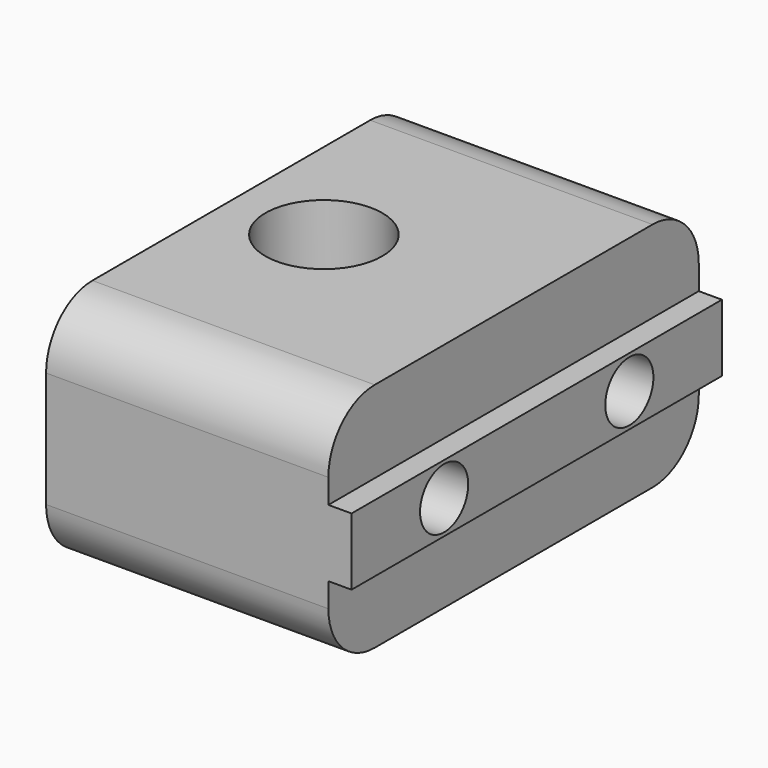
from build123d import *

# Parameters (mm, degrees)
F0_W     = 24.392
F0_H     = 40
F1_DEPTH = 20
F2_R     = 5.05
F3_DEPTH = 10
F4_W     = 40
F4_H     = 5.8
F5_DEPTH = 2
F6_R     = 2.6
F7_DEPTH = 26.393
F8_R     = 4.5
F9_DEPTH = 20.4
F10_R    = 5


with BuildPart() as f1:
    # F0 (on Top) → F1 (new body)
    with BuildSketch(Plane.XY):
        with Locations((4.196, 0)):
            Rectangle(F0_W, F0_H)
    extrude(amount=F1_DEPTH)

    # F2 (on face) → F3 (cut)
    with BuildSketch(Plane.XY.offset(20)):
        Circle(F2_R)
    extrude(amount=-F3_DEPTH, mode=Mode.SUBTRACT)

    # F4 (on face) → F5 (join)
    with BuildSketch(Plane.YZ.offset(16.392)):
        with Locations((0, 10)):
            Rectangle(F4_W, F4_H)
    extrude(amount=F5_DEPTH)

    # F6 (on face) → F7 (cut, through all)
    with BuildSketch(Plane(origin=(-8, 0, 0), x_dir=(0, -1, 0), z_dir=(-1, 0, 0))):
        with Locations((-10, 10)):
            Circle(F6_R)
        with Locations((10, 10)):
            Circle(F6_R)
    extrude(amount=-F7_DEPTH, mode=Mode.SUBTRACT)

    # F8 (on face) → F9 (cut)
    with BuildSketch(Plane(origin=(-8, 0, 0), x_dir=(0, -1, 0), z_dir=(-1, 0, 0))):
        with Locations((-10, 10)):
            Circle(F8_R)
        with Locations((10, 10)):
            Circle(F8_R)
    extrude(amount=-F9_DEPTH, mode=Mode.SUBTRACT)

    # F10
    f10_edges = [f1.edges().sort_by_distance(p)[0] for p in [
        (4.196, -20, 20),
        (4.196, 20, 20),
        (4.196, -20, 0),
        (4.196, 20, 0),
    ]]
    fillet(f10_edges, radius=F10_R)


solid = f1.part
